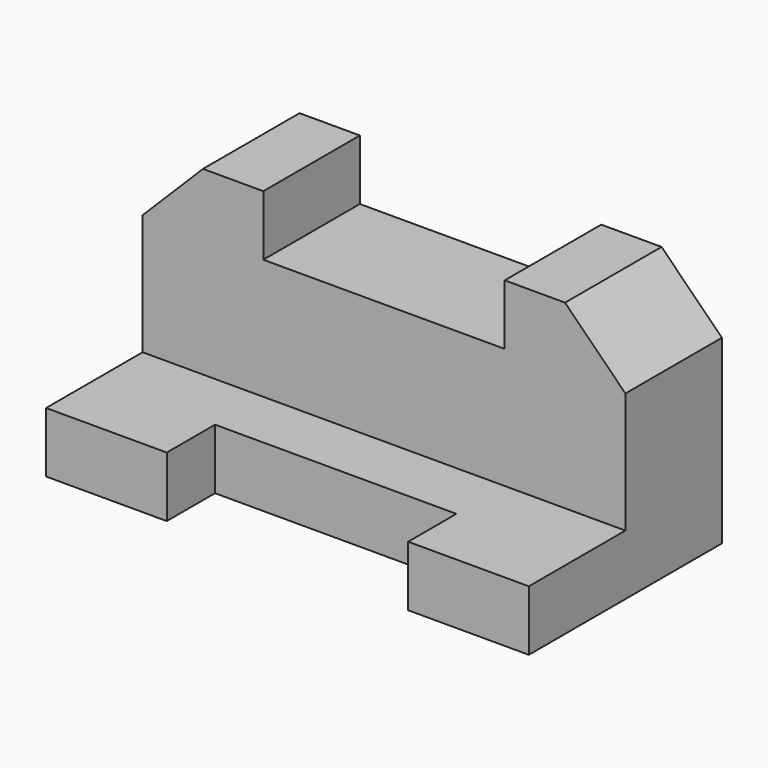
from build123d import *

# Parameters (mm, degrees)
F0_W     = 203.2
F0_H     = 101.6
F1_DEPTH = 101.6
F2_W     = 203.2
F2_H     = 76.2
F3_DEPTH = 50.8
F4_W     = 101.6
F4_H     = 25.4
F5_DEPTH = 25.4
F6_W     = 101.6
F6_H     = 25.4
F7_DEPTH = 50.8
F9_DEPTH = 50.8


with BuildPart() as f1:
    # F0 (on Front) → F1 (new body)
    with BuildSketch(Plane.XZ):
        Rectangle(F0_W, F0_H)
    extrude(amount=F1_DEPTH)

    # F2 (on face) → F3 (cut)
    with BuildSketch(Plane.XZ.offset(101.6)):
        with Locations((0, 12.7)):
            Rectangle(F2_W, F2_H)
    extrude(amount=-F3_DEPTH, mode=Mode.SUBTRACT)

    # F4 (on face) → F5 (cut)
    with BuildSketch(Plane.XZ.offset(101.6)):
        with Locations((0, -38.1)):
            Rectangle(F4_W, F4_H)
    extrude(amount=-F5_DEPTH, mode=Mode.SUBTRACT)

    # F6 (on face) → F7 (cut)
    with BuildSketch(Plane.XZ.offset(50.8)):
        with Locations((0, 38.1)):
            Rectangle(F6_W, F6_H)
    extrude(amount=-F7_DEPTH, mode=Mode.SUBTRACT)

    # F8 (on face) → F9 (cut)
    with BuildSketch(Plane.XZ.offset(50.8)):
        Polygon((101.6, 50.8), (76.2, 50.8), (101.6, 25.4), align=None)
        Polygon((-101.6, 25.4), (-76.2, 50.8), (-101.6, 50.8), align=None)
    extrude(amount=-F9_DEPTH, mode=Mode.SUBTRACT)


solid = f1.part
